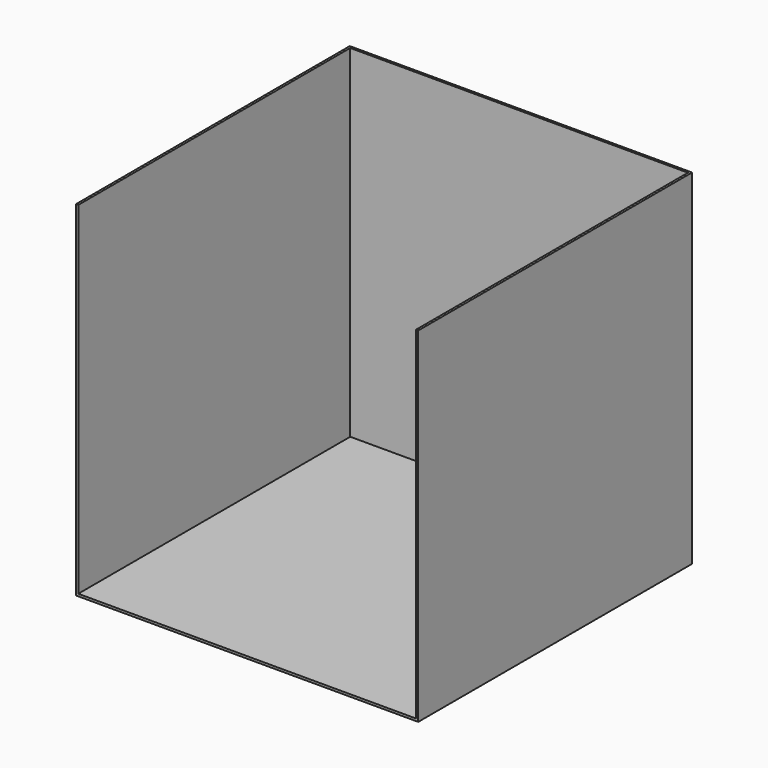
from build123d import *

# Parameters (mm, degrees)
F0_W     = 150
F0_H     = 150
F1_DEPTH = 1
F3_DEPTH = 150


with BuildPart() as f1:
    # F0 (on Top) → F1 (new body)
    with BuildSketch(Plane.XY):
        Rectangle(F0_W, F0_H)
    extrude(amount=F1_DEPTH)

    # F2 (on face) → F3 (join)
    with BuildSketch(Plane.XY.offset(1)):
        Polygon((75, -75), (75, 75), (-75, 75), (-75, -75), (-74, -75), (-74, 74), (74, 74), (74, -75), align=None)
    extrude(amount=F3_DEPTH)


solid = f1.part
